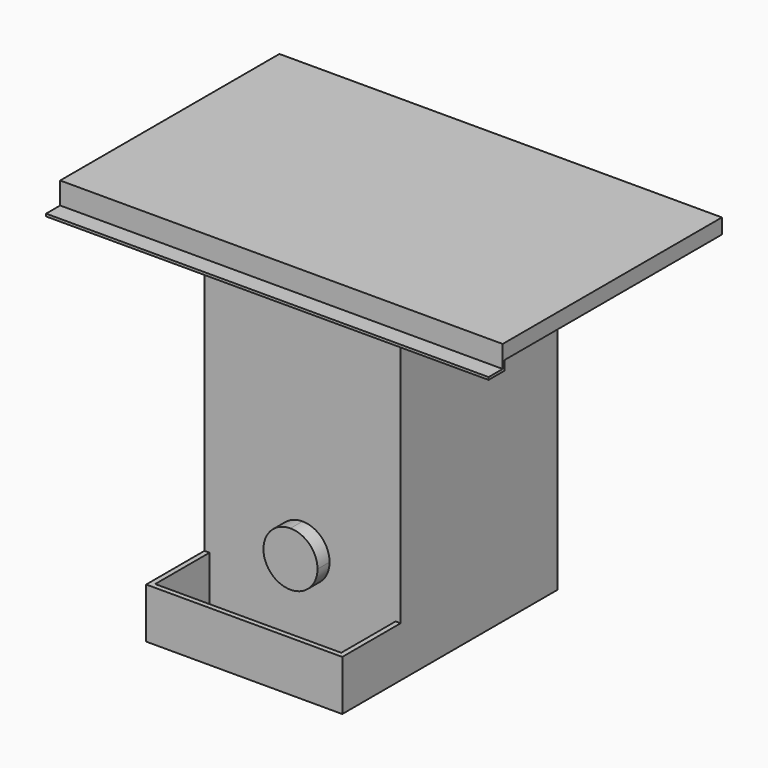
from build123d import *

# Parameters (mm, degrees)
F0_W     = 495.3
F0_H     = 495.3
F1_DEPTH = 838.2
F3_DEPTH = 38.1
F5_DEPTH = 38.1
F7_DEPTH = 1117.6
F9_DEPTH = 127


with BuildPart() as f1:
    # F0 (on Top) → F1 (new body)
    with BuildSketch(Plane.XY):
        Rectangle(F0_W, F0_H)
    extrude(amount=F1_DEPTH)

    # F2 (on face) → F3 (join)
    with BuildSketch(Plane.XZ.offset(247.65)):
        with BuildLine():
            ThreePointArc((0, 273.05), (-68.2625, 204.7875), (0, 136.525))
            Line((0, 136.525), (0, 273.05))
        make_face()
        with BuildLine():
            Line((0, 273.05), (0, 136.525))
            ThreePointArc((0, 136.525), (48.268877, 156.518623), (68.2625, 204.7875))
            ThreePointArc((68.2625, 204.7875), (48.268877, 253.056377), (0, 273.05))
        make_face()
    extrude(amount=F3_DEPTH)

    # F4 (on face) → F5 (join)
    with BuildSketch(Plane.XY.offset(838.2)):
        Polygon((-558.8, 377.825), (-558.8, -247.65), (-558.8, -307.975), (558.8, -307.975), (558.8, -247.65), (558.8, 377.825), align=None)
    extrude(amount=F5_DEPTH)

    # F6 (on face) → F7 (join)
    with BuildSketch(Plane.YZ.offset(558.8)):
        Polygon((-307.975, 838.2), (-307.975, 876.3), (-314.325, 876.3), (-314.325, 820.7375), (-358.775, 820.7375), (-358.775, 814.3875), (-307.975, 814.3875), align=None)
    extrude(amount=-F7_DEPTH)

    # F8 (on face) → F9 (join)
    with BuildSketch(Plane(origin=(0, 0, 0), x_dir=(1, 0, 0), z_dir=(0, 0, -1))):
        Polygon((234.95, 247.65), (247.65, 247.65), (247.65, 431.8), (-247.65, 431.8), (-247.65, 247.65), (-234.95, 247.65), (-234.95, 419.1), (234.95, 419.1), align=None)
    extrude(amount=-F9_DEPTH)


solid = f1.part
